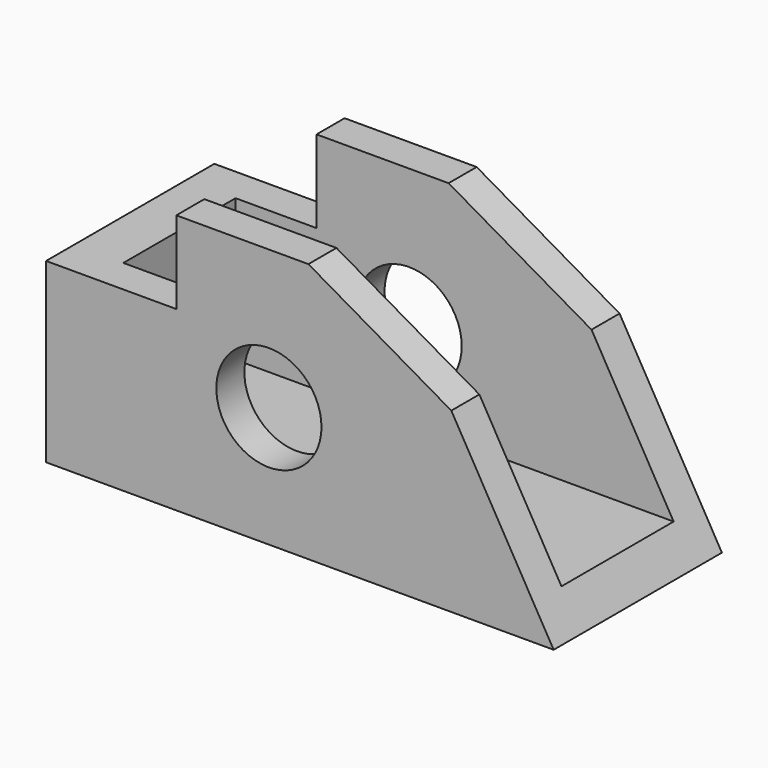
from build123d import *

# Parameters (mm, degrees)
F1_DEPTH = 15
F2_W     = 10
F2_H     = 10.395046
F2_H_2   = 10.143298
F3_DEPTH = 40
F4_W     = 3.51127
F4_H     = 10
F5_DEPTH = 10.143298
F6_R     = 3.75
F7_DEPTH = 25


with BuildPart() as f1:
    # F0 (on Front) → F1 (new body)
    with BuildSketch(Plane.XZ):
        Polygon((0, 12.643298), (0, 0), (36.2, 0), (28.900388, 12.643298), (18.709274, 18.527141), (9.287707, 18.527141), (9.287707, 12.643298), align=None)
    extrude(amount=F1_DEPTH)

    # F2 (on face) → F3 (cut)
    with BuildSketch(Plane(origin=(0, 0, 0), x_dir=(0, -1, 0), z_dir=(-1, 0, 0))):
        with Locations((7.5, 17.840821)):
            Rectangle(F2_W, F2_H)
        with Locations((7.5, 7.571649)):
            Rectangle(F2_W, F2_H_2)
    extrude(amount=-F3_DEPTH, mode=Mode.SUBTRACT)

    # F4 (on face) → F5 (join, through all)
    with BuildSketch(Plane.XY.offset(2.5)):
        with Locations((1.755635, -7.5)):
            Rectangle(F4_W, F4_H)
    extrude(amount=F5_DEPTH)

    # F6 (on face) → F7 (cut)
    with BuildSketch(Plane.XZ.offset(15)):
        with Locations((15.891228, 8.597537)):
            Circle(F6_R)
    extrude(amount=-F7_DEPTH, mode=Mode.SUBTRACT)


solid = f1.part
